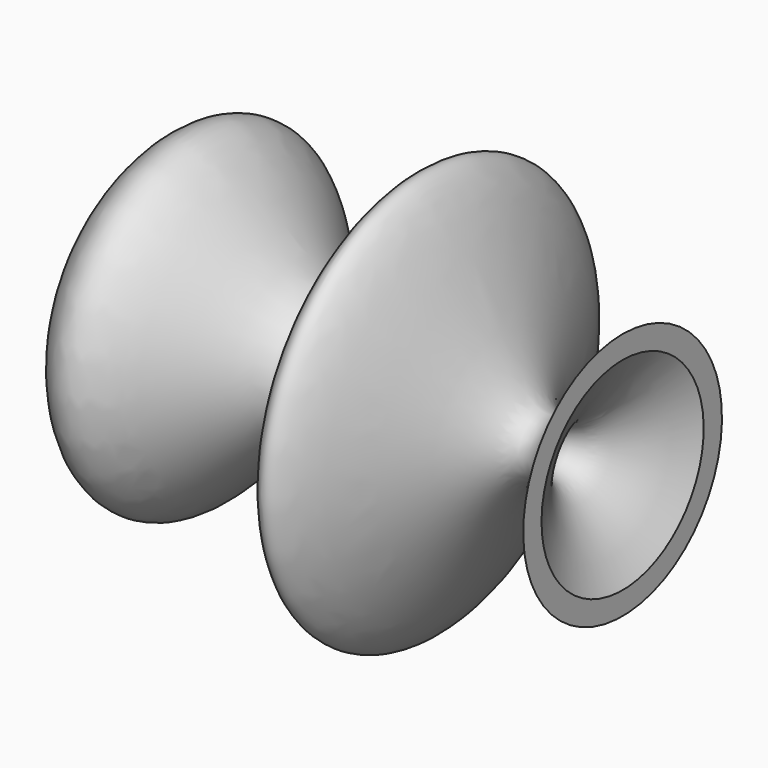
from build123d import *

# Parameters (mm, degrees)
F2_T = -2.5


with BuildPart() as f1:
    # F0 (on Front) → F1 (revolve)
    with BuildSketch(Plane.XZ):
        with BuildLine():
            add(Edge.make_bspline(
                [(-63.1873831153, 15.7968457788), (-56.7044194413, 28.5896775202), (-42.9801602676, 55.6717571391), (-7.8292768671, -12.7549179332), (8.2583238931, 80.1156546836), (32.5317609786, -13.2894614558), (48.0129910562, 16.0176215303), (54.8501648009, 28.9608836174)],
                knots=[0, 0, 0, 0, 0.1833804757, 0.3882115191, 0.5953193951, 0.821275726, 1, 1, 1, 1], degree=3))
            Line((-63.1873831153, 15.7968457788), (-63.1873831153, 0))
            Line((-63.1873831153, 0), (54.8501648009, 0))
            Line((54.8501648009, 0), (54.8501648009, 28.9608836174))
        make_face()
    revolve(axis=Axis((-4.1686091572, 0, 0), (1, 0, 0)))

    # F2
    f2_openings = [f1.faces().sort_by_distance(p)[0] for p in [
        (54.850165, 0, 0),
    ]]
    offset(amount=F2_T, openings=f2_openings)


solid = f1.part
